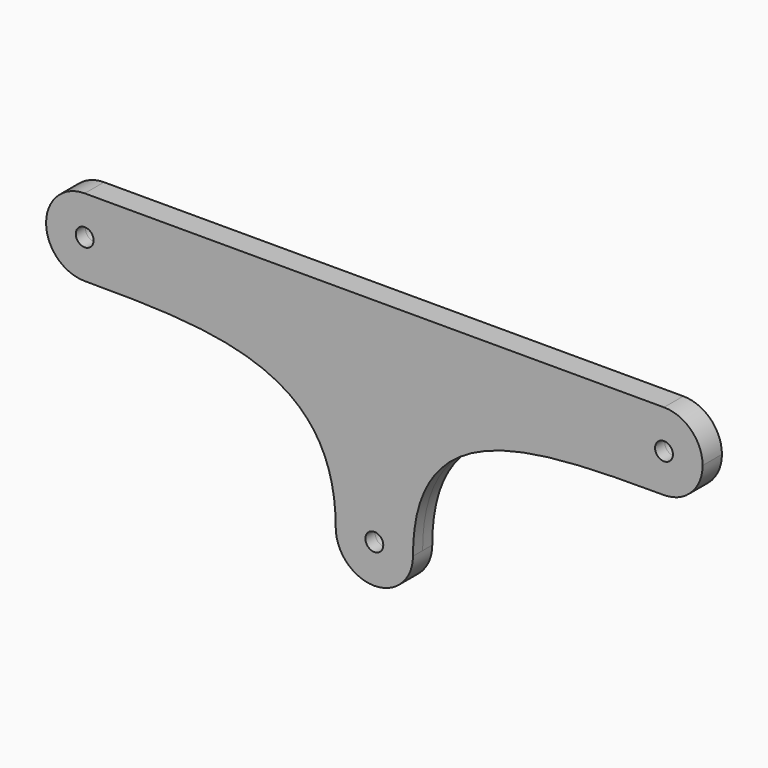
from build123d import *

# Parameters (mm, degrees)
F0_R     = 1.85
F1_DEPTH = 2.5


with BuildPart() as f1:
    # F0 (on Front) → F1 (new body, symmetric)
    with BuildSketch(Plane.XZ):
        with BuildLine():
            ThreePointArc((-60, 44.055513), (-54.343146, 41.712367), (-52, 36.055513))
            ThreePointArc((-52, 36.055513), (-54.343146, 30.398659), (-60, 28.055513))
            add(Edge.make_bspline(
                [(-60, 28.055513), (-34, 28.055513), (-8, 28.055513), (-8, 0)],
                knots=[0, 0, 0, 0, 59.085631, 59.085631, 59.085631, 59.085631], degree=3))
            ThreePointArc((-8, 0), (0, 8), (8, 0))
            add(Edge.make_bspline(
                [(60, 28.055513), (34, 28.055513), (8, 28.055513), (8, 0)],
                knots=[0, 0, 0, 0, 59.085631, 59.085631, 59.085631, 59.085631], degree=3))
            ThreePointArc((60, 28.055513), (52, 36.055513), (60, 44.055513))
            Line((60, 44.055513), (-60, 44.055513))
        make_face()
        with BuildLine():
            ThreePointArc((-60, 28.055513), (-54.343146, 30.398659), (-52, 36.055513))
            ThreePointArc((-52, 36.055513), (-54.343146, 41.712367), (-60, 44.055513))
            ThreePointArc((-60, 44.055513), (-68, 36.055513), (-60, 28.055513))
        make_face()
        with Locations((-60, 36.055513)):
            Circle(F0_R, mode=Mode.SUBTRACT)
        with BuildLine():
            ThreePointArc((8, 0), (0, 8), (-8, 0))
            ThreePointArc((-8, 0), (0, -8), (8, 0))
        make_face()
        Circle(F0_R, mode=Mode.SUBTRACT)
        with BuildLine():
            ThreePointArc((68, 36.055513), (65.656854, 41.712367), (60, 44.055513))
            ThreePointArc((60, 44.055513), (52, 36.055513), (60, 28.055513))
            ThreePointArc((60, 28.055513), (65.656854, 30.398659), (68, 36.055513))
        make_face()
        with Locations((60, 36.055513)):
            Circle(F0_R, mode=Mode.SUBTRACT)
    extrude(amount=F1_DEPTH, both=True)


solid = f1.part
